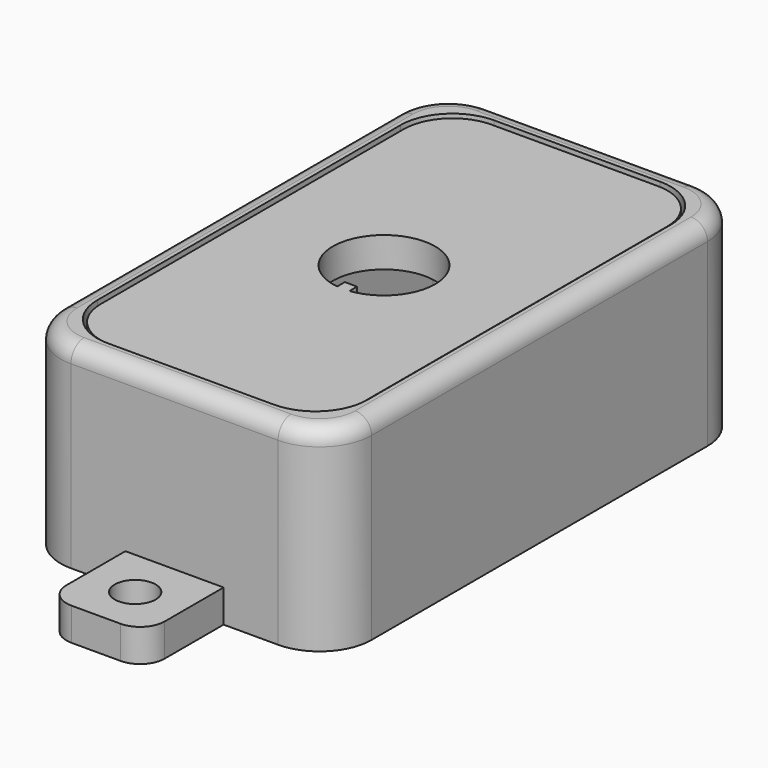
from build123d import *

# Parameters (mm, degrees)
F1_DEPTH = 20
F2_DEPTH = 24
F0_R     = 2.5
F3_DEPTH = 4
F5_R     = 2
F7_DEPTH = 3.7
F9_DEPTH = 5


with BuildPart() as f1:
    # F0 (on Top) → F1 (new body)
    with BuildSketch(Plane.XY):
        with BuildLine():
            ThreePointArc((19, 25.65), (17.140128, 30.140128), (12.65, 32))
            Line((12.65, 32), (6, 32))
            Line((6, 32), (-6, 32))
            Line((-6, 32), (-12.65, 32))
            ThreePointArc((-12.65, 32), (-17.140128, 30.140128), (-19, 25.65))
            Line((-19, 25.65), (-19, -25.65))
            ThreePointArc((-19, -25.65), (-17.140128, -30.140128), (-12.65, -32))
            Line((-12.65, -32), (-6, -32))
            Line((-6, -32), (6, -32))
            Line((6, -32), (12.65, -32))
            ThreePointArc((12.65, -32), (17.140128, -30.140128), (19, -25.65))
            Line((19, -25.65), (19, 25.65))
        make_face()
        with BuildLine():
            Line((-10.15, 29.5), (10.15, 29.5))
            ThreePointArc((10.15, 29.5), (14.640128, 27.640128), (16.5, 23.15))
            Line((16.5, 23.15), (16.5, -23.15))
            ThreePointArc((16.5, -23.15), (14.640128, -27.640128), (10.15, -29.5))
            Line((10.15, -29.5), (-10.15, -29.5))
            ThreePointArc((-10.15, -29.5), (-14.640128, -27.640128), (-16.5, -23.15))
            Line((-16.5, -23.15), (-16.5, 23.15))
            ThreePointArc((-16.5, 23.15), (-14.640128, 27.640128), (-10.15, 29.5))
        make_face(mode=Mode.SUBTRACT)
        with BuildLine():
            ThreePointArc((16.5, 23.15), (14.640128, 27.640128), (10.15, 29.5))
            Line((10.15, 29.5), (-10.15, 29.5))
            ThreePointArc((-10.15, 29.5), (-14.640128, 27.640128), (-16.5, 23.15))
            Line((-16.5, 23.15), (-16.5, -23.15))
            ThreePointArc((-16.5, -23.15), (-14.640128, -27.640128), (-10.15, -29.5))
            Line((-10.15, -29.5), (10.15, -29.5))
            ThreePointArc((10.15, -29.5), (14.640128, -27.640128), (16.5, -23.15))
            Line((16.5, -23.15), (16.5, 23.15))
        make_face()
        with BuildLine():
            Line((-12, 27), (12, 27))
            ThreePointArc((12, 27), (13.414214, 26.414214), (14, 25))
            Line((14, 25), (14, -25))
            ThreePointArc((14, -25), (13.414214, -26.414214), (12, -27))
            Line((12, -27), (-12, -27))
            ThreePointArc((-12, -27), (-13.414214, -26.414214), (-14, -25))
            Line((-14, -25), (-14, 25))
            ThreePointArc((-14, 25), (-13.414214, 26.414214), (-12, 27))
        make_face(mode=Mode.SUBTRACT)
    extrude(amount=F1_DEPTH)

    # F0 (on Top) → F2 (join)
    with BuildSketch(Plane.XY):
        with BuildLine():
            ThreePointArc((19, 25.65), (17.140128, 30.140128), (12.65, 32))
            Line((12.65, 32), (6, 32))
            Line((6, 32), (-6, 32))
            Line((-6, 32), (-12.65, 32))
            ThreePointArc((-12.65, 32), (-17.140128, 30.140128), (-19, 25.65))
            Line((-19, 25.65), (-19, -25.65))
            ThreePointArc((-19, -25.65), (-17.140128, -30.140128), (-12.65, -32))
            Line((-12.65, -32), (-6, -32))
            Line((-6, -32), (6, -32))
            Line((6, -32), (12.65, -32))
            ThreePointArc((12.65, -32), (17.140128, -30.140128), (19, -25.65))
            Line((19, -25.65), (19, 25.65))
        make_face()
        with BuildLine():
            Line((-10.15, 29.5), (10.15, 29.5))
            ThreePointArc((10.15, 29.5), (14.640128, 27.640128), (16.5, 23.15))
            Line((16.5, 23.15), (16.5, -23.15))
            ThreePointArc((16.5, -23.15), (14.640128, -27.640128), (10.15, -29.5))
            Line((10.15, -29.5), (-10.15, -29.5))
            ThreePointArc((-10.15, -29.5), (-14.640128, -27.640128), (-16.5, -23.15))
            Line((-16.5, -23.15), (-16.5, 23.15))
            ThreePointArc((-16.5, 23.15), (-14.640128, 27.640128), (-10.15, 29.5))
        make_face(mode=Mode.SUBTRACT)
    extrude(amount=F2_DEPTH)

    # F0 (on Top) → F3 (join)
    with BuildSketch(Plane.XY):
        with BuildLine():
            Line((-6, 32), (6, 32))
            Line((6, 32), (6, 41))
            ThreePointArc((6, 41), (5.12132, 43.12132), (3, 44))
            Line((3, 44), (-3, 44))
            ThreePointArc((-3, 44), (-5.12132, 43.12132), (-6, 41))
            Line((-6, 41), (-6, 32))
        make_face()
        with Locations((0, 38)):
            Circle(F0_R, mode=Mode.SUBTRACT)
        with BuildLine():
            Line((6, -41), (6, -32))
            Line((6, -32), (-6, -32))
            Line((-6, -32), (-6, -41))
            ThreePointArc((-6, -41), (-5.12132, -43.12132), (-3, -44))
            Line((-3, -44), (3, -44))
            ThreePointArc((3, -44), (5.12132, -43.12132), (6, -41))
        make_face()
        with Locations((0, -38)):
            Circle(F0_R, mode=Mode.SUBTRACT)
    extrude(amount=F3_DEPTH)

    # F5
    f5_edges = [f1.edges().sort_by_distance(p)[0] for p in [
        (-19, 0, 24),
        (-17.140128, 30.140128, 24),
        (0, 32, 24),
        (17.140128, 30.140128, 24),
        (19, 0, 24),
        (17.140128, -30.140128, 24),
        (0, -32, 24),
        (-17.140128, -30.140128, 24),
    ]]
    fillet(f5_edges, radius=F5_R)

    # F8 (on face) → F9 (cut)
    with BuildSketch(Plane(origin=(-19, 0, 0), x_dir=(0, -1, 0), z_dir=(-1, 0, 0))):
        with BuildLine():
            Line((-5, 2.5), (-5, 0))
            Line((-5, 0), (5, 0))
            Line((5, 0), (5, 2.5))
            ThreePointArc((5, 2.5), (4.56066, 3.56066), (3.5, 4))
            Line((3.5, 4), (-3.5, 4))
            ThreePointArc((-3.5, 4), (-4.56066, 3.56066), (-5, 2.5))
        make_face()
    extrude(amount=-F9_DEPTH, mode=Mode.SUBTRACT)


with BuildPart() as f7:
    # F6 (on face) → F7 (new body)
    with BuildSketch(Plane.XY.offset(20)):
        with BuildLine():
            Line((16.1, -23.15), (16.1, 23.15))
            ThreePointArc((16.1, 23.15), (14.357285, 27.357285), (10.15, 29.1))
            Line((10.15, 29.1), (-10.15, 29.1))
            ThreePointArc((-10.15, 29.1), (-14.357285, 27.357285), (-16.1, 23.15))
            Line((-16.1, 23.15), (-16.1, -23.15))
            ThreePointArc((-16.1, -23.15), (-14.357285, -27.357285), (-10.15, -29.1))
            Line((-10.15, -29.1), (10.15, -29.1))
            ThreePointArc((10.15, -29.1), (14.357285, -27.357285), (16.1, -23.15))
        make_face()
        with BuildLine():
            ThreePointArc((-0.75, -6.204837), (-4.419417, 4.419417), (6.204837, 0.75))
            Line((6.204837, 0.75), (7.45, 0.75))
            Line((7.45, 0.75), (7.45, -0.75))
            Line((7.45, -0.75), (6.204837, -0.75))
            ThreePointArc((6.204837, -0.75), (4.419417, -4.419417), (0.75, -6.204837))
            Line((0.75, -6.204837), (0.75, -7.45))
            Line((0.75, -7.45), (-0.75, -7.45))
            Line((-0.75, -7.45), (-0.75, -6.204837))
        make_face(mode=Mode.SUBTRACT)
        with BuildLine():
            Line((16.1, -23.15), (16.1, 23.15))
            ThreePointArc((16.1, 23.15), (14.357285, 27.357285), (10.15, 29.1))
            Line((10.15, 29.1), (-10.15, 29.1))
            ThreePointArc((-10.15, 29.1), (-14.357285, 27.357285), (-16.1, 23.15))
            Line((-16.1, 23.15), (-16.1, -23.15))
            ThreePointArc((-16.1, -23.15), (-14.357285, -27.357285), (-10.15, -29.1))
            Line((-10.15, -29.1), (10.15, -29.1))
            ThreePointArc((10.15, -29.1), (14.357285, -27.357285), (16.1, -23.15))
        make_face()
        with BuildLine():
            ThreePointArc((-0.75, -6.204837), (-4.419417, 4.419417), (6.204837, 0.75))
            Line((6.204837, 0.75), (7.45, 0.75))
            Line((7.45, 0.75), (7.45, -0.75))
            Line((7.45, -0.75), (6.204837, -0.75))
            ThreePointArc((6.204837, -0.75), (4.419417, -4.419417), (0.75, -6.204837))
            Line((0.75, -6.204837), (0.75, -7.45))
            Line((0.75, -7.45), (-0.75, -7.45))
            Line((-0.75, -7.45), (-0.75, -6.204837))
        make_face(mode=Mode.SUBTRACT)
        with BuildLine():
            ThreePointArc((6.204837, 0.75), (6.238699, 0.375679), (6.25, 0))
            ThreePointArc((6.25, 0), (6.238699, -0.375679), (6.204837, -0.75))
            Line((6.204837, -0.75), (7.45, -0.75))
            Line((7.45, -0.75), (7.45, 0.75))
            Line((7.45, 0.75), (6.204837, 0.75))
        make_face()
        with BuildLine():
            Line((-0.75, -5.05), (-0.75, -6.204837))
            ThreePointArc((-0.75, -6.204837), (0, -6.25), (0.75, -6.204837))
            Line((0.75, -6.204837), (0.75, -5.05))
            Line((0.75, -5.05), (-0.75, -5.05))
        make_face()
        with BuildLine():
            ThreePointArc((0.75, -6.204837), (0, -6.25), (-0.75, -6.204837))
            Line((-0.75, -6.204837), (-0.75, -7.45))
            Line((-0.75, -7.45), (0.75, -7.45))
            Line((0.75, -7.45), (0.75, -6.204837))
        make_face()
    extrude(amount=F7_DEPTH)


solid = Compound([f1.part, f7.part])
